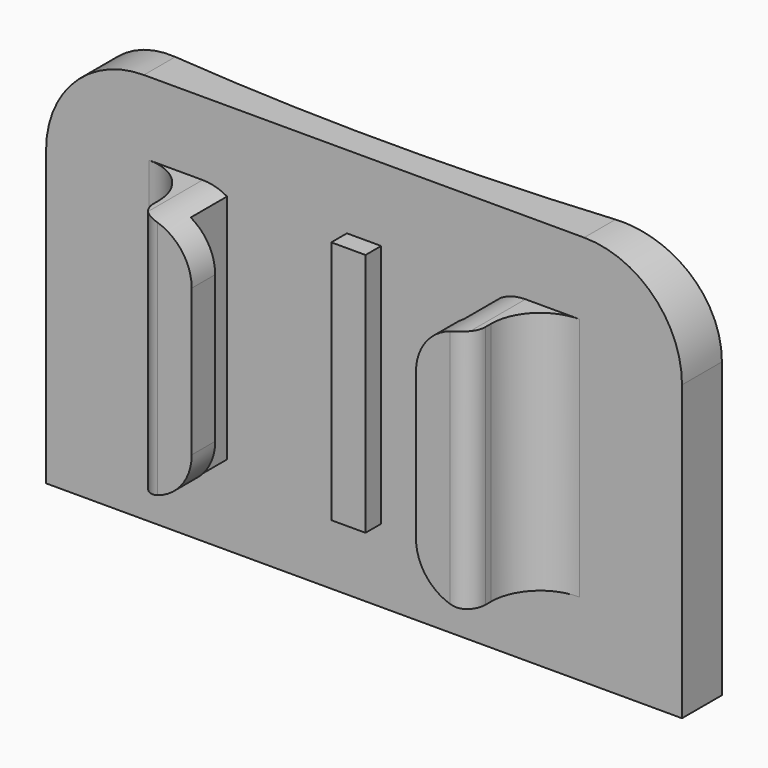
from build123d import *

# Parameters (mm, degrees)
F0_W     = 65
F0_H     = 40
F1_DEPTH = 3
F3_DEPTH = 40
F4_W     = 3.5
F4_H     = 2
F5_DEPTH = 40
F6_W     = 10.0229219794
F6_H     = 7.5
F6_W_2   = 13.6237391531
F7_DEPTH = 65
F8_R     = 5
F9_R     = 5
F10_R    = 2
F11_R    = 10


with BuildPart() as f1:
    # F0 (on Front) → F1 (new body)
    with BuildSketch(Plane.XZ):
        Rectangle(F0_W, F0_H)
    extrude(amount=F1_DEPTH)

    # F2 (on face) → F3 (join, through all)
    with BuildSketch(Plane.XY.offset(20)):
        with BuildLine():
            ThreePointArc((32.5, 2.100319489), (16.2838980434, 0.5256269687), (0, 0))
            Line((0, 0), (32.5, 0))
            Line((32.5, 0), (32.5, 2.100319489))
        make_face()
        with BuildLine():
            ThreePointArc((0, 0), (-16.2838980434, 0.5256269687), (-32.5, 2.100319489))
            Line((-32.5, 2.100319489), (-32.5, 0))
            Line((-32.5, 0), (0, 0))
        make_face()
    extrude(amount=-F3_DEPTH)

    # F4 (on face) → F5 (join, through all)
    with BuildSketch(Plane(origin=(0, 0, -20), x_dir=(1, 0, 0), z_dir=(0, 0, -1))):
        Polygon((-17, 10.6432288885), (-17, 3), (-14, 3), (-14, 7.6432288885), (-11.5, 7.6432288885), (-11.5, 10.6432288885), align=None)
        Polygon((14, 3), (17, 3), (17, 10.7397525311), (11.5, 10.7397525311), (11.5, 7.7397525311), (14, 7.7397525311), align=None)
        with Locations((0, 4)):
            Rectangle(F4_W, F4_H)
    extrude(amount=-F5_DEPTH)

    # F6 (on face) → F7 (cut, through all)
    with BuildSketch(Plane.YZ.offset(32.5)):
        with Locations((-8.0114609897, -16.25)):
            Rectangle(F6_W, F6_H)
        with Locations((-9.8118695766, 16.25)):
            Rectangle(F6_W_2, F6_H)
    extrude(amount=-F7_DEPTH, mode=Mode.SUBTRACT)

    # F8
    f8_edges = [f1.edges().sort_by_distance(p)[0] for p in [
        (17, -3, 0),
        (-17, -3, 0),
    ]]
    fillet(f8_edges, radius=F8_R)

    # F9
    f9_edges = [f1.edges().sort_by_distance(p)[0] for p in [
        (11.5, -9.239753, 12.5),
        (-11.5, -9.143229, 12.5),
        (11.5, -9.239753, -12.5),
        (-11.5, -9.143229, -12.5),
    ]]
    fillet(f9_edges, radius=F9_R)

    # F10
    f10_edges = [f1.edges().sort_by_distance(p)[0] for p in [
        (17, -10.739753, 0),
        (-17, -10.643229, 0),
    ]]
    fillet(f10_edges, radius=F10_R)

    # F11
    f11_edges = [f1.edges().sort_by_distance(p)[0] for p in [
        (32.5, -0.44984, 20),
        (-32.5, -0.44984, 20),
    ]]
    fillet(f11_edges, radius=F11_R)


solid = f1.part
